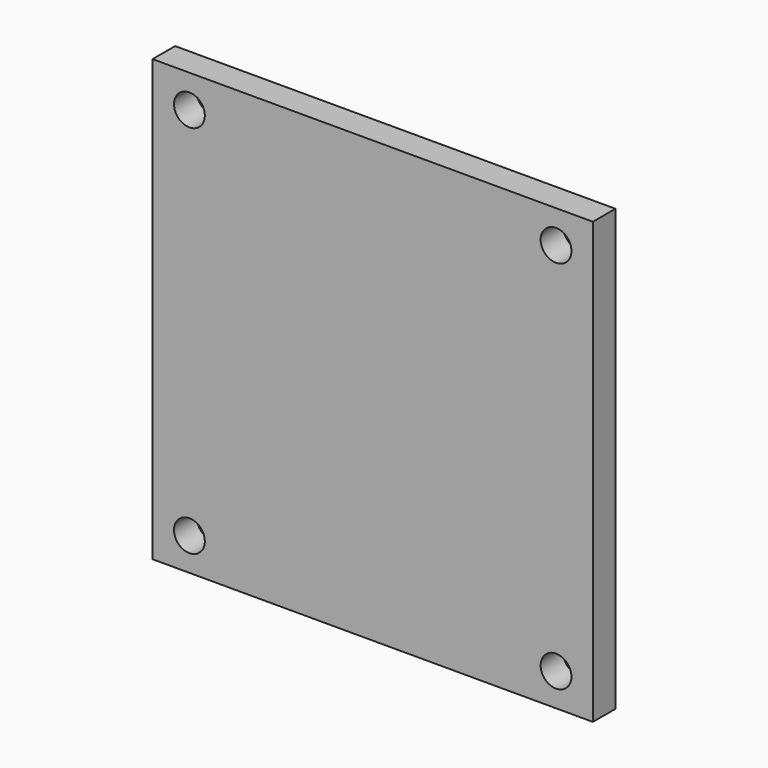
from build123d import *

# Parameters (mm, degrees)
F0_W     = 250
F0_H     = 250
F1_DEPTH = 16
F3_D     = 17.5


with BuildPart() as f1:
    # F0 (on Front) → F1 (new body)
    with BuildSketch(Plane.XZ):
        with Locations((125, 125)):
            Rectangle(F0_W, F0_H)
    extrude(amount=F1_DEPTH)

    # F3 (through all)
    with Locations(Plane.XZ.offset(16)):
        with Locations((20.9212601185, 231.4076423645), (20.9212601185, 18.5923576355), (229.0787398815, 18.5923576355), (229.0787398815, 231.4076423645)):
            Hole(F3_D / 2)


solid = f1.part
